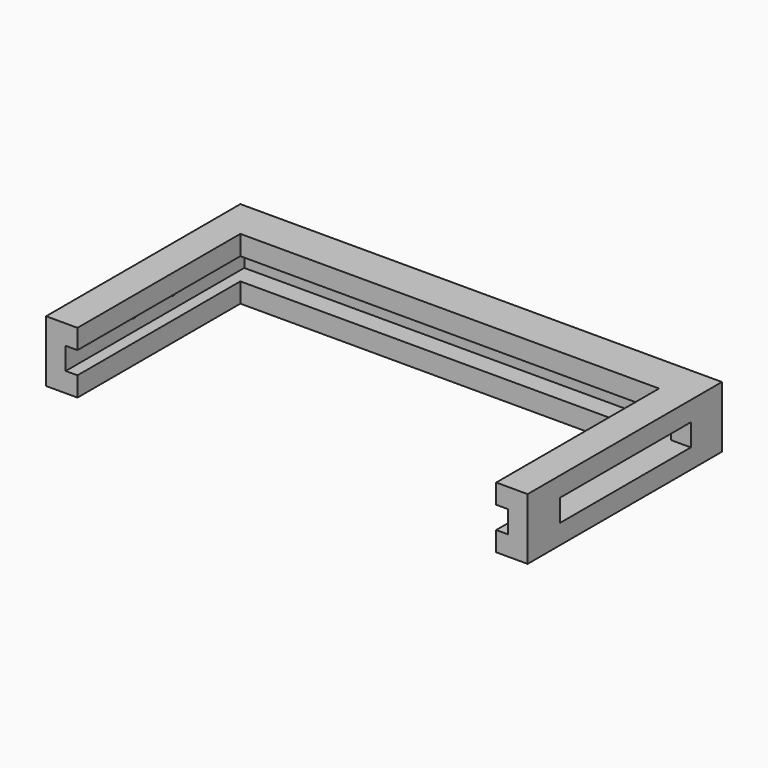
from build123d import *

# Parameters (mm, degrees)
F0_W      = 143
F0_H      = 72.17
F1_DEPTH  = 7.17
F2_W      = 72.17
F2_H      = 19.87
F3_DEPTH  = 6.35
F4_W      = 72.17
F4_H      = 19.87
F5_DEPTH  = 6.35
F6_W      = 143
F6_H      = 6.3621380544
F7_DEPTH  = 6.35
F8_W      = 143
F8_H      = 6.358533836
F9_DEPTH  = 6.35
F10_W     = 155.7
F10_H     = 19.87
F11_DEPTH = 6.35
F12_W     = 143
F12_H     = 7.17
F13_DEPTH = 65.811466164
F14_W     = 143
F14_H     = 7.17
F15_DEPTH = 6.35
F16_W     = 65.811466164
F16_H     = 6.35
F17_DEPTH = 3.81
F18_W     = 65.8105651094
F18_H     = 6.35
F19_DEPTH = 3.81
F20_W     = 65.811466164
F20_H     = 6.35
F21_DEPTH = 3.81
F22_W     = 65.8105651094
F22_H     = 6.35
F23_DEPTH = 3.81
F24_W     = 52.8727266937
F24_H     = 7.17
F25_DEPTH = 25.4
F26_R     = 1.27
F27_DEPTH = 149.35


with BuildPart() as f1:
    # F0 (on Top) → F1 (new body)
    with BuildSketch(Plane.XY):
        Rectangle(F0_W, F0_H)
    extrude(amount=F1_DEPTH)

    # F2 (on face) → F3 (join)
    with BuildSketch(Plane.YZ.offset(71.5)):
        with Locations((0, 3.585)):
            Rectangle(F2_W, F2_H)
    extrude(amount=F3_DEPTH)

    # F4 (on face) → F5 (join)
    with BuildSketch(Plane(origin=(-71.5, 0, 0), x_dir=(0, -1, 0), z_dir=(-1, 0, 0))):
        with Locations((0, 3.585)):
            Rectangle(F4_W, F4_H)
    extrude(amount=F5_DEPTH)

    # F6 (on face) → F7 (join)
    with BuildSketch(Plane.XY.offset(7.17)):
        with Locations((0, 32.9039309728)):
            Rectangle(F6_W, F6_H)
    extrude(amount=F7_DEPTH)

    # F8 (on face) → F9 (join)
    with BuildSketch(Plane(origin=(0, 0, 0), x_dir=(1, 0, 0), z_dir=(0, 0, -1))):
        with Locations((0, -32.905733082)):
            Rectangle(F8_W, F8_H)
    extrude(amount=F9_DEPTH)

    # F10 (on face) → F11 (join)
    with BuildSketch(Plane(origin=(0, 36.085, 0), x_dir=(-1, 0, 0), z_dir=(0, 1, 0))):
        with Locations((0, 3.585)):
            Rectangle(F10_W, F10_H)
    extrude(amount=F11_DEPTH)

    # F12 (on face) → F13 (cut, through all)
    with BuildSketch(Plane.XZ.offset(36.085)):
        with Locations((0, 3.585)):
            Rectangle(F12_W, F12_H)
    extrude(amount=-F13_DEPTH, mode=Mode.SUBTRACT)

    # F14 (on face) → F15 (cut)
    with BuildSketch(Plane.XZ.offset(-29.726466164)):
        with Locations((0, 3.585)):
            Rectangle(F14_W, F14_H)
    extrude(amount=-F15_DEPTH, mode=Mode.SUBTRACT)

    # F16 (on face) → F17 (join)
    with BuildSketch(Plane(origin=(71.5, 0, 0), x_dir=(0, -1, 0), z_dir=(-1, 0, 0))):
        with Locations((3.179266918, -3.175)):
            Rectangle(F16_W, F16_H)
    extrude(amount=F17_DEPTH)

    # F18 (on face) → F19 (join)
    with BuildSketch(Plane(origin=(71.5, 0, 0), x_dir=(0, -1, 0), z_dir=(-1, 0, 0))):
        with Locations((3.1797174453, 10.345)):
            Rectangle(F18_W, F18_H)
    extrude(amount=F19_DEPTH)

    # F20 (on face) → F21 (join)
    with BuildSketch(Plane.YZ.offset(-71.5)):
        with Locations((-3.179266918, -3.175)):
            Rectangle(F20_W, F20_H)
    extrude(amount=F21_DEPTH)

    # F22 (on face) → F23 (join)
    with BuildSketch(Plane.YZ.offset(-71.5)):
        with Locations((-3.1797174453, 10.345)):
            Rectangle(F22_W, F22_H)
    extrude(amount=F23_DEPTH)

    # F24 (on face) → F25 (cut)
    with BuildSketch(Plane.YZ.offset(77.85)):
        with Locations((3.4307548776, 3.585)):
            Rectangle(F24_W, F24_H)
    extrude(amount=-F25_DEPTH, mode=Mode.SUBTRACT)

    # F26 (on face) → F27 (cut, through all)
    with BuildSketch(Plane(origin=(-77.85, 0, 0), x_dir=(0, -1, 0), z_dir=(-1, 0, 0))):
        with Locations((-7.3689044776, 5.0491553406)):
            Circle(F26_R)
        with Locations((8.3790955224, 5.0491553406)):
            Circle(F26_R)
    extrude(amount=-F27_DEPTH, mode=Mode.SUBTRACT)


solid = f1.part
